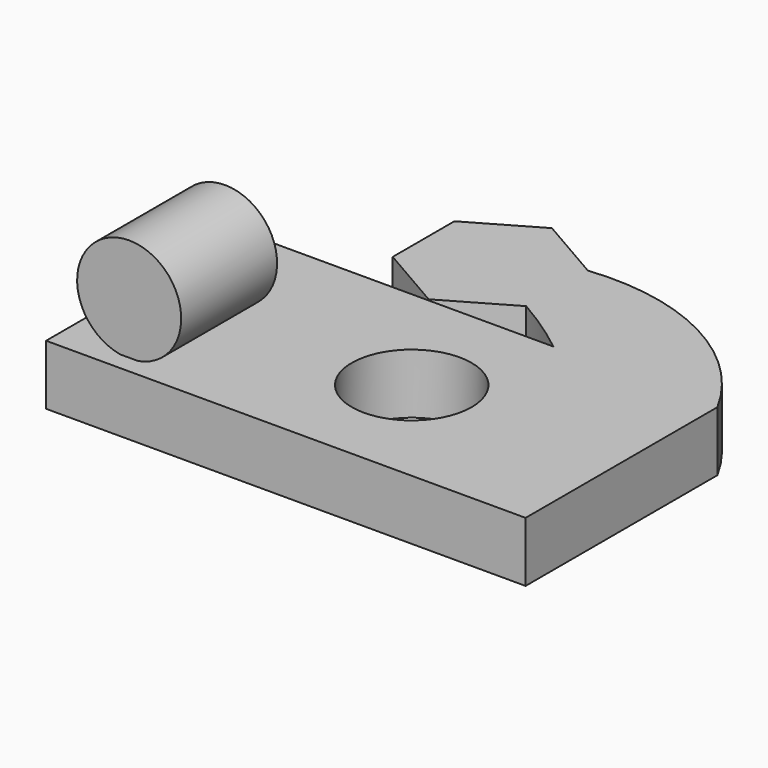
from build123d import *

# Parameters (mm, degrees)
F0_R     = 25.4
F1_DEPTH = 12.7
F2_DEPTH = 25.4
F3_R     = 22.051706
F4_DEPTH = 50.8


with BuildPart() as f1:
    # F0 (on Top) → F1 (new body)
    with BuildSketch(Plane.XY):
        with BuildLine():
            Line((3.983806, 43.125236), (-129.739803, 43.125236))
            Line((-129.739803, 43.125236), (-129.739803, -7.674764))
            Line((-129.739803, -7.674764), (-129.739803, -58.474764))
            Line((-129.739803, -58.474764), (-15.439803, -58.474764))
            Line((-15.439803, -58.474764), (73.460197, -58.474764))
            ThreePointArc((73.460197, -58.474764), (46.476896, -2.371791), (3.983806, 43.125236))
        make_face()
        with Locations((-15.439803, -7.674764)):
            Circle(F0_R, mode=Mode.SUBTRACT)
        with BuildLine():
            ThreePointArc((-21.157369, 60.119772), (-8.273827, 52.085478), (3.983806, 43.125236))
            Line((3.983806, 43.125236), (73.460197, 43.125236))
            ThreePointArc((73.460197, 43.125236), (33.692598, 82.321217), (-21.157369, 92.774352))
            Line((-21.157369, 92.774352), (-21.157369, 60.119772))
        make_face()
        with BuildLine():
            Line((73.460197, 43.125236), (3.983806, 43.125236))
            ThreePointArc((3.983806, 43.125236), (46.476896, -2.371791), (73.460197, -58.474764))
            Line((73.460197, -58.474764), (73.460197, 43.125236))
        make_face()
        Polygon((-49.437065, 43.792482), (-21.157369, 60.119772), (-21.157369, 92.774352), (-49.437065, 109.101642), (-77.71676, 92.774352), (-77.71676, 60.119772), align=None)
    extrude(amount=F1_DEPTH)

    # F0 (on Top) → F2 (join)
    with BuildSketch(Plane.XY):
        with BuildLine():
            Line((3.983806, 43.125236), (-129.739803, 43.125236))
            Line((-129.739803, 43.125236), (-129.739803, -7.674764))
            Line((-129.739803, -7.674764), (-129.739803, -58.474764))
            Line((-129.739803, -58.474764), (-15.439803, -58.474764))
            Line((-15.439803, -58.474764), (73.460197, -58.474764))
            ThreePointArc((73.460197, -58.474764), (46.476896, -2.371791), (3.983806, 43.125236))
        make_face()
        with Locations((-15.439803, -7.674764)):
            Circle(F0_R, mode=Mode.SUBTRACT)
        with BuildLine():
            ThreePointArc((-21.157369, 60.119772), (-8.273827, 52.085478), (3.983806, 43.125236))
            Line((3.983806, 43.125236), (73.460197, 43.125236))
            ThreePointArc((73.460197, 43.125236), (33.692598, 82.321217), (-21.157369, 92.774352))
            Line((-21.157369, 92.774352), (-21.157369, 60.119772))
        make_face()
        with BuildLine():
            Line((73.460197, 43.125236), (3.983806, 43.125236))
            ThreePointArc((3.983806, 43.125236), (46.476896, -2.371791), (73.460197, -58.474764))
            Line((73.460197, -58.474764), (73.460197, 43.125236))
        make_face()
        Polygon((-49.437065, 43.792482), (-21.157369, 60.119772), (-21.157369, 92.774352), (-49.437065, 109.101642), (-77.71676, 92.774352), (-77.71676, 60.119772), align=None)
    extrude(amount=F2_DEPTH)

    # F3 (on Front) → F4 (join)
    with BuildSketch(Plane.XZ):
        with Locations((-100.670184, 47.124073)):
            Circle(F3_R)
    extrude(amount=F4_DEPTH)


solid = f1.part
